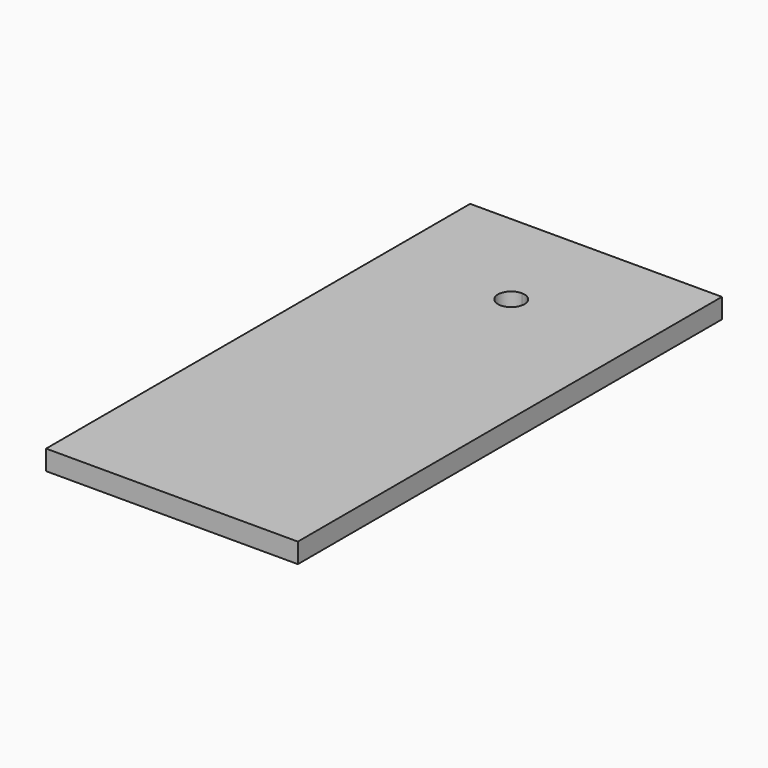
from build123d import *

# Parameters (mm, degrees)
F0_W     = 241.3
F0_H     = 508
F1_DEPTH = 19.05
F3_DEPTH = 19.051


with BuildPart() as f1:
    # F0 (on Top) → F1 (new body)
    with BuildSketch(Plane.XY):
        Rectangle(F0_W, F0_H)
    extrude(amount=F1_DEPTH)

    # F2 (on face) → F3 (cut, through all)
    with BuildSketch(Plane.XY.offset(19.05)):
        with BuildLine():
            ThreePointArc((12.7, 152.4), (8.980256, 161.380256), (0, 165.1))
            ThreePointArc((0, 165.1), (-8.980256, 143.419744), (12.7, 152.4))
        make_face()
    extrude(amount=-F3_DEPTH, mode=Mode.SUBTRACT)


solid = f1.part
